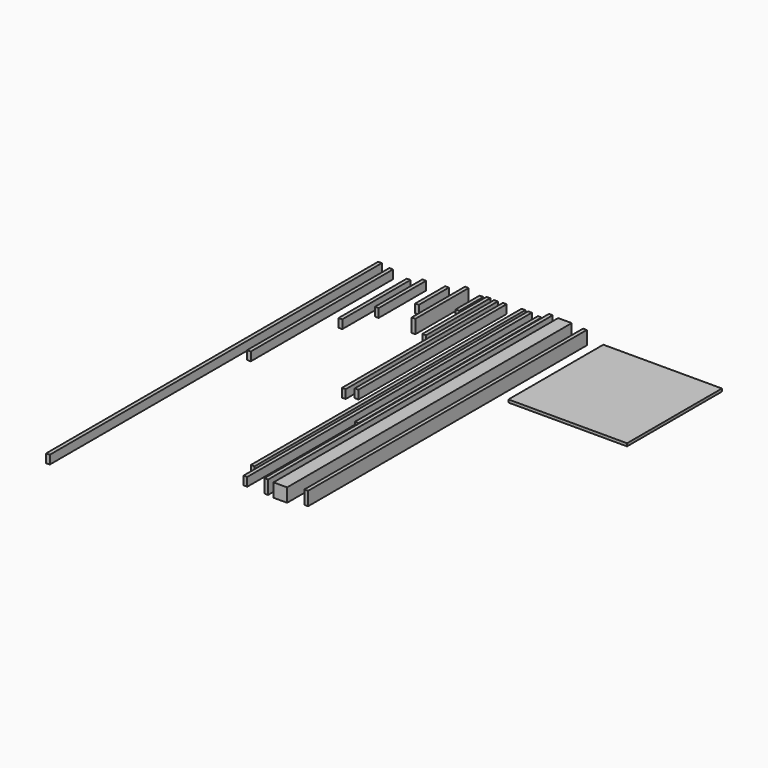
from build123d import *

# Parameters (mm, degrees)
F0_W      = 38.1
F0_H      = 139.7
F1_DEPTH  = 3657.6
F2_W      = 139.7
F2_H      = 139.7
F3_DEPTH  = 3657.6
F5_W      = 38.1
F5_H      = 139.7
F6_DEPTH  = 3581.4
F8_W      = 1219.2
F8_H      = 28.575
F9_DEPTH  = 1219.2
F10_W     = 38.1
F10_H     = 88.9
F11_DEPTH = 2352.675
F12_W     = 38.1
F12_H     = 88.9
F13_DEPTH = 3657.6
F15_W     = 38.1
F15_H     = 88.9
F16_DEPTH = 3479.8
F18_W     = 38.1
F18_H     = 88.9
F19_DEPTH = 1955.8
F20_W     = 38.1
F20_H     = 88.9
F21_DEPTH = 1905
F22_W     = 38.1
F22_H     = 88.9
F23_DEPTH = 825.5
F24_W     = 38.1
F24_H     = 88.9
F25_DEPTH = 307.975
F27_W     = 38.1
F27_H     = 139.7
F28_DEPTH = 685.8
F29_W     = 38.1
F29_H     = 88.9
F30_DEPTH = 384.175
F31_W     = 38.1
F31_H     = 88.9
F32_DEPTH = 609.6
F33_W     = 38.1
F33_H     = 88.9
F34_DEPTH = 876.3
F35_W     = 38.1
F35_H     = 88.9
F36_DEPTH = 1828.8
F37_W     = 38.1
F37_H     = 88.9
F38_DEPTH = 4267.2


with BuildPart() as f1:
    # F0 (on Front) → F1 (new body)
    with BuildSketch(Plane.XZ):
        with Locations((-326.445041, 29.529715)):
            Rectangle(F0_W, F0_H)
    extrude(amount=F1_DEPTH)


with BuildPart() as f3:
    # F2 (on Front) → F3 (new body)
    with BuildSketch(Plane.XZ):
        with Locations((-181.725139, 22.087785)):
            Rectangle(F2_W, F2_H)
    extrude(amount=F3_DEPTH)


with BuildPart() as f6:
    # F5 (on Front) → F6 (new body)
    with BuildSketch(Plane.XZ):
        with Locations((23.450868, 9.818288)):
            Rectangle(F5_W, F5_H)
    extrude(amount=F6_DEPTH)


with BuildPart() as f9:
    # F8 (on Front) → F9 (new body)
    with BuildSketch(Plane.XZ):
        with Locations((822.495766, -12.186169)):
            Rectangle(F8_W, F8_H)
    extrude(amount=F9_DEPTH)


with BuildPart() as f11:
    # F10 (on Front) → F11 (new body)
    with BuildSketch(Plane.XZ):
        with Locations((-440.30443, -2.246372)):
            Rectangle(F10_W, F10_H)
    extrude(amount=F11_DEPTH)


with BuildPart() as f13:
    # F12 (on Front) → F13 (new body)
    with BuildSketch(Plane.XZ):
        with Locations((-541.159334, 8.232057)):
            Rectangle(F12_W, F12_H)
    extrude(amount=F13_DEPTH)


with BuildPart() as f16:
    # F15 (on Front) → F16 (new body)
    with BuildSketch(Plane.XZ):
        with Locations((-608.514724, 9.951666)):
            Rectangle(F15_W, F15_H)
    extrude(amount=F16_DEPTH)


with BuildPart() as f19:
    # F18 (on Front) → F19 (new body)
    with BuildSketch(Plane.XZ):
        with Locations((-890.847085, -3.355786)):
            Rectangle(F18_W, F18_H)
    extrude(amount=F19_DEPTH)


with BuildPart() as f21:
    # F20 (on Front) → F21 (new body)
    with BuildSketch(Plane.XZ):
        with Locations((-799.629571, 1.197148)):
            Rectangle(F20_W, F20_H)
    extrude(amount=F21_DEPTH)


with BuildPart() as f23:
    # F22 (on Front) → F23 (new body)
    with BuildSketch(Plane.XZ):
        with Locations((-968.37938, 0.445198)):
            Rectangle(F22_W, F22_H)
    extrude(amount=F23_DEPTH)


with BuildPart() as f25:
    # F24 (on Front) → F25 (new body)
    with BuildSketch(Plane.XZ):
        with Locations((-1040.225385, -11.70845)):
            Rectangle(F24_W, F24_H)
    extrude(amount=F25_DEPTH)


with BuildPart() as f28:
    # F27 (on Front) → F28 (new body)
    with BuildSketch(Plane.XZ):
        with Locations((-1189.839961, -4.829874)):
            Rectangle(F27_W, F27_H)
    extrude(amount=F28_DEPTH)


with BuildPart() as f30:
    # F29 (on Front) → F30 (new body)
    with BuildSketch(Plane.XZ):
        with Locations((-1394.308923, -41.990325)):
            Rectangle(F29_W, F29_H)
    extrude(amount=F30_DEPTH)


with BuildPart() as f32:
    # F31 (on Front) → F32 (new body)
    with BuildSketch(Plane.XZ):
        with Locations((-1628.305914, -56.366913)):
            Rectangle(F31_W, F31_H)
    extrude(amount=F32_DEPTH)


with BuildPart() as f34:
    # F33 (on Front) → F34 (new body)
    with BuildSketch(Plane.XZ):
        with Locations((-1788.703801, -101.562202)):
            Rectangle(F33_W, F33_H)
    extrude(amount=F34_DEPTH)


with BuildPart() as f36:
    # F35 (on Front) → F36 (new body)
    with BuildSketch(Plane.XZ):
        with Locations((-1967.706086, -63.960642)):
            Rectangle(F35_W, F35_H)
    extrude(amount=F36_DEPTH)


with BuildPart() as f38:
    # F37 (on Front) → F38 (new body)
    with BuildSketch(Plane.XZ):
        with Locations((-2083.114984, -44.45)):
            Rectangle(F37_W, F37_H)
    extrude(amount=F38_DEPTH)


solid = Compound([f1.part, f3.part, f6.part, f9.part, f11.part, f13.part, f16.part, f19.part, f21.part, f23.part, f25.part, f28.part, f30.part, f32.part, f34.part, f36.part, f38.part])
